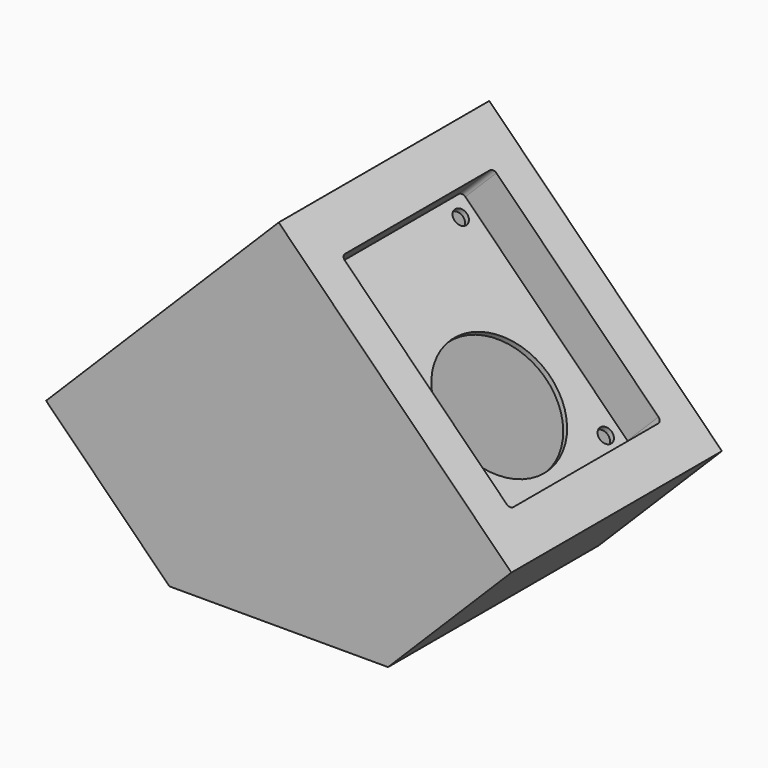
from build123d import *

# Parameters (mm, degrees)
F1_DEPTH = 60
F2_R     = 3.5
F2_R_2   = 29
F3_DEPTH = 20
F4_T     = -2.5
F5_DEPTH = 40


with BuildPart() as f1:
    # F0 (on Front) → F1 (new body, symmetric)
    with BuildSketch(Plane.XZ):
        Polygon((-34.6706601963, 0), (65.0272384259, 0), (121.2443062928, 56.2170678669), (15.1782891148, 162.2830850448), (-90.8877280632, 56.2170678669), align=None)
    extrude(amount=F1_DEPTH, both=True)

    # F2 (on face) → F3 (cut)
    with BuildSketch(Plane(origin=(88.7306870798, 0, 88.7306870798), x_dir=(0.7071067812, 0, -0.7071067812), z_dir=(0.7071067812, 0, 0.7071067812))):
        with BuildLine():
            ThreePointArc((26.0637215376, 41.2), (25.4779351, 42.6142135624), (24.0637215376, 43.2))
            Line((24.0637215376, 43.2), (-80.4362784624, 43.2))
            ThreePointArc((-80.4362784624, 43.2), (-81.8504920248, 42.6142135624), (-82.4362784624, 41.2))
            Line((-82.4362784624, 41.2), (-82.4362784624, -41.2))
            ThreePointArc((-82.4362784624, -41.2), (-81.8504920248, -42.6142135624), (-80.4362784624, -43.2))
            Line((-80.4362784624, -43.2), (24.0637215376, -43.2))
            ThreePointArc((24.0637215376, -43.2), (25.4779351, -42.6142135624), (26.0637215376, -41.2))
            Line((26.0637215376, -41.2), (26.0637215376, 41.2))
        make_face()
        with Locations((-74.9362784624, -35.7)):
            Circle(F2_R, mode=Mode.SUBTRACT)
        with Locations((18.5637215376, -35.7)):
            Circle(F2_R, mode=Mode.SUBTRACT)
        with Locations((-74.9362784624, 35.7)):
            Circle(F2_R, mode=Mode.SUBTRACT)
        with Locations((-9.7362784624, 0)):
            Circle(F2_R_2, mode=Mode.SUBTRACT)
        with Locations((18.5637215376, 35.7)):
            Circle(F2_R, mode=Mode.SUBTRACT)
        with Locations((-9.7362784624, 0)):
            Circle(F2_R_2)
        with Locations((-74.9362784624, -35.7)):
            Circle(F2_R)
        with Locations((-74.9362784624, 35.7)):
            Circle(F2_R)
        with Locations((18.5637215376, 35.7)):
            Circle(F2_R)
        with Locations((18.5637215376, -35.7)):
            Circle(F2_R)
    extrude(amount=-F3_DEPTH, mode=Mode.SUBTRACT)

    # F4
    f4_openings = [f1.faces().sort_by_distance(p)[0] for p in [
        (15.178289, 0, 0),
    ]]
    offset(amount=F4_T, openings=f4_openings, kind=Kind.INTERSECTION)

    # F2 (on face) → F5 (cut)
    with BuildSketch(Plane(origin=(88.7306870798, 0, 88.7306870798), x_dir=(0.7071067812, 0, -0.7071067812), z_dir=(0.7071067812, 0, 0.7071067812))):
        with Locations((-9.7362784624, 0)):
            Circle(F2_R_2)
        with Locations((-74.9362784624, 35.7)):
            Circle(F2_R)
        with Locations((-74.9362784624, -35.7)):
            Circle(F2_R)
        with Locations((18.5637215376, -35.7)):
            Circle(F2_R)
        with Locations((18.5637215376, 35.7)):
            Circle(F2_R)
    extrude(amount=-F5_DEPTH, mode=Mode.SUBTRACT)


solid = f1.part
